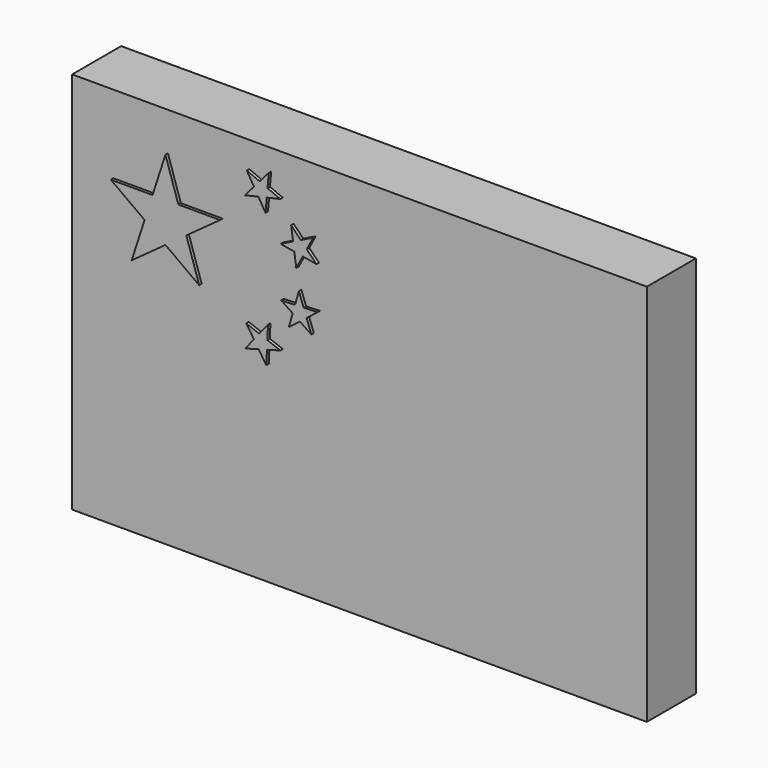
from build123d import *

# Parameters (mm, degrees)
F0_W     = 9.375
F0_H     = 6.25
F1_DEPTH = 0.5
F2_DEPTH = 0.55


with BuildPart() as f1:
    # F0 (on Front) → F1 (new body, symmetric)
    with BuildSketch(Plane.XZ):
        Rectangle(F0_W, F0_H)
        Polygon((-1.5940887542, 0.4276162778), (-1.45225, 0.60493), (-1.4627809703, 0.3781111587), (-1.25032, 0.29801), (-1.4692891501, 0.2379362482), (-1.47982, 0.01112), (-1.6046177776, 0.2008091077), (-1.82357, 0.14074), (-1.6817436333, 0.3180382365), (-1.80653, 0.50771), align=None, mode=Mode.SUBTRACT)
        Polygon((-0.8708636636, 1.0365052502), (-0.64393, 1.04465), (-0.8227314344, 0.9046887114), (-0.74485, 0.6914), (-0.933221672, 0.8181997183), (-1.11197, 0.67828), (-1.0496266799, 0.8965560977), (-1.23796, 1.02333), (-1.011092323, 1.0314723815), (-0.94874, 1.24978), align=None, mode=Mode.SUBTRACT)
        Polygon((-3.3354794214, 1.85221), (-3.125, 2.5), (-2.914516759, 1.85221), (-2.2334, 1.85221), (-2.7844309261, 1.4518536518), (-2.57394, 0.80404), (-3.1249971008, 1.204412313), (-3.67605, 0.80404), (-3.4655634626, 1.4518519009), (-4.016601, 1.85221), align=None, mode=Mode.SUBTRACT)
        Polygon((-0.9170624909, 1.9925929856), (-0.71322, 2.09261), (-0.8193476982, 1.8918681334), (-0.66124, 1.72889), (-0.8849342003, 1.7678104455), (-0.99104, 1.56711), (-1.0231619648, 1.7918606272), (-1.24685, 1.83078), (-1.043018366, 1.9307916874), (-1.07514, 2.15554), align=None, mode=Mode.SUBTRACT)
        Polygon((-1.5892924054, 2.6163223665), (-1.44021, 2.7876), (-1.460146995, 2.5614016312), (-1.25119, 2.47254), (-1.4724668983, 2.421624196), (-1.4924, 2.19547), (-1.6092180103, 2.3901577715), (-1.83046, 2.33925), (-1.681416449, 2.5104829945), (-1.79824, 2.70518), align=None, mode=Mode.SUBTRACT)
    extrude(amount=F1_DEPTH, both=True)


with BuildPart() as f2:
    # F0 (on Front) → F2 (new body, symmetric)
    with BuildSketch(Plane.XZ):
        Polygon((-2.7844309261, 1.4518536518), (-2.914516759, 1.85221), (-3.3354794214, 1.85221), (-3.4655634626, 1.4518519009), (-3.1249971008, 1.204412313), align=None)
        Polygon((-2.914516759, 1.85221), (-3.125, 2.5), (-3.3354794214, 1.85221), align=None)
        Polygon((-2.2334, 1.85221), (-2.914516759, 1.85221), (-2.7844309261, 1.4518536518), align=None)
        Polygon((-3.4655634626, 1.4518519009), (-3.3354794214, 1.85221), (-4.016601, 1.85221), align=None)
        Polygon((-3.1249971008, 1.204412313), (-3.4655634626, 1.4518519009), (-3.67605, 0.80404), align=None)
        Polygon((-2.57394, 0.80404), (-2.7844309261, 1.4518536518), (-3.1249971008, 1.204412313), align=None)
    extrude(amount=F2_DEPTH, both=True)


with BuildPart() as f2b:
    # F0 (on Front) → F2, piece 2 (new body, symmetric)
    with BuildSketch(Plane.XZ):
        Polygon((-1.6817436333, 0.3180382365), (-1.5940887542, 0.4276162778), (-1.80653, 0.50771), align=None)
        Polygon((-1.4627809703, 0.3781111587), (-1.45225, 0.60493), (-1.5940887542, 0.4276162778), align=None)
        Polygon((-1.25032, 0.29801), (-1.4627809703, 0.3781111587), (-1.4692891501, 0.2379362482), align=None)
        Polygon((-1.47982, 0.01112), (-1.4692891501, 0.2379362482), (-1.6046177776, 0.2008091077), align=None)
        Polygon((-1.4692891501, 0.2379362482), (-1.4627809703, 0.3781111587), (-1.5940887542, 0.4276162778), (-1.6817436333, 0.3180382365), (-1.6046177776, 0.2008091077), align=None)
        Polygon((-1.6046177776, 0.2008091077), (-1.6817436333, 0.3180382365), (-1.82357, 0.14074), align=None)
    extrude(amount=F2_DEPTH, both=True)


with BuildPart() as f2c:
    # F0 (on Front) → F2, piece 3 (new body, symmetric)
    with BuildSketch(Plane.XZ):
        Polygon((-0.933221672, 0.8181997183), (-0.8227314344, 0.9046887114), (-0.8708636636, 1.0365052502), (-1.011092323, 1.0314723815), (-1.0496266799, 0.8965560977), align=None)
        Polygon((-0.74485, 0.6914), (-0.8227314344, 0.9046887114), (-0.933221672, 0.8181997183), align=None)
        Polygon((-1.11197, 0.67828), (-0.933221672, 0.8181997183), (-1.0496266799, 0.8965560977), align=None)
        Polygon((-1.011092323, 1.0314723815), (-0.8708636636, 1.0365052502), (-0.94874, 1.24978), align=None)
        Polygon((-1.0496266799, 0.8965560977), (-1.011092323, 1.0314723815), (-1.23796, 1.02333), align=None)
        Polygon((-0.8227314344, 0.9046887114), (-0.64393, 1.04465), (-0.8708636636, 1.0365052502), align=None)
    extrude(amount=F2_DEPTH, both=True)


with BuildPart() as f2d:
    # F0 (on Front) → F2, piece 4 (new body, symmetric)
    with BuildSketch(Plane.XZ):
        Polygon((-1.043018366, 1.9307916874), (-0.9170624909, 1.9925929856), (-1.07514, 2.15554), align=None)
        Polygon((-0.8193476982, 1.8918681334), (-0.71322, 2.09261), (-0.9170624909, 1.9925929856), align=None)
        Polygon((-0.8849342003, 1.7678104455), (-0.8193476982, 1.8918681334), (-0.9170624909, 1.9925929856), (-1.043018366, 1.9307916874), (-1.0231619648, 1.7918606272), align=None)
        Polygon((-0.66124, 1.72889), (-0.8193476982, 1.8918681334), (-0.8849342003, 1.7678104455), align=None)
        Polygon((-0.99104, 1.56711), (-0.8849342003, 1.7678104455), (-1.0231619648, 1.7918606272), align=None)
        Polygon((-1.0231619648, 1.7918606272), (-1.043018366, 1.9307916874), (-1.24685, 1.83078), align=None)
    extrude(amount=F2_DEPTH, both=True)


with BuildPart() as f2e:
    # F0 (on Front) → F2, piece 5 (new body, symmetric)
    with BuildSketch(Plane.XZ):
        Polygon((-1.460146995, 2.5614016312), (-1.44021, 2.7876), (-1.5892924054, 2.6163223665), align=None)
        Polygon((-1.4724668983, 2.421624196), (-1.460146995, 2.5614016312), (-1.5892924054, 2.6163223665), (-1.681416449, 2.5104829945), (-1.6092180103, 2.3901577715), align=None)
        Polygon((-1.681416449, 2.5104829945), (-1.5892924054, 2.6163223665), (-1.79824, 2.70518), align=None)
        Polygon((-1.6092180103, 2.3901577715), (-1.681416449, 2.5104829945), (-1.83046, 2.33925), align=None)
        Polygon((-1.4924, 2.19547), (-1.4724668983, 2.421624196), (-1.6092180103, 2.3901577715), align=None)
        Polygon((-1.25119, 2.47254), (-1.460146995, 2.5614016312), (-1.4724668983, 2.421624196), align=None)
    extrude(amount=F2_DEPTH, both=True)


solid = Compound([f1.part, f2.part, f2b.part, f2c.part, f2d.part, f2e.part])
